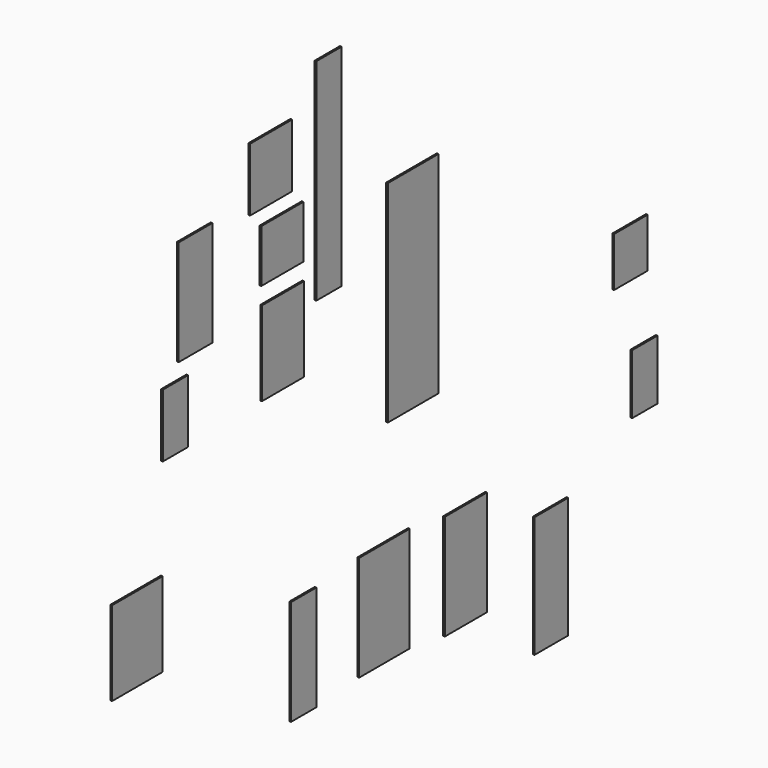
from build123d import *

# Parameters (mm, degrees)
F0_W      = 300
F0_H      = 2000
F1_DEPTH  = 16
F2_W      = 600
F2_H      = 2000
F3_DEPTH  = 16
F4_W      = 500
F4_H      = 800
F5_DEPTH  = 16
F6_W      = 500
F6_H      = 500
F7_DEPTH  = 16
F8_W      = 500
F8_H      = 600
F9_DEPTH  = 16
F10_W     = 300
F10_H     = 600
F11_DEPTH = 16
F12_W     = 400
F12_H     = 1000
F13_DEPTH = 16
F14_W     = 300
F14_H     = 1000
F15_DEPTH = 16
F16_W     = 500
F16_H     = 1000
F17_DEPTH = 16
F18_W     = 600
F18_H     = 1000
F19_DEPTH = 16
F20_W     = 600
F20_H     = 800
F21_DEPTH = 16
F22_W     = 400
F22_H     = 468
F23_DEPTH = 16
F24_W     = 300
F24_H     = 568
F25_DEPTH = 16
F26_W     = 400
F26_H     = 1150
F27_DEPTH = 16


with BuildPart() as f1:
    # F0 (on Right) → F1 (new body)
    with BuildSketch(Plane.YZ):
        with Locations((150, 1000)):
            Rectangle(F0_W, F0_H)
    extrude(amount=F1_DEPTH)


with BuildPart() as f3:
    # F2 (on Right) → F3 (new body)
    with BuildSketch(Plane.YZ):
        with Locations((1149.183393, -363.05549)):
            Rectangle(F2_W, F2_H)
    extrude(amount=F3_DEPTH)


with BuildPart() as f5:
    # F4 (on Right) → F5 (new body)
    with BuildSketch(Plane.YZ):
        with Locations((-394.620359, -177.552847)):
            Rectangle(F4_W, F4_H)
    extrude(amount=F5_DEPTH)


with BuildPart() as f7:
    # F6 (on Right) → F7 (new body)
    with BuildSketch(Plane.YZ):
        with Locations((-401.999153, 637.911748)):
            Rectangle(F6_W, F6_H)
    extrude(amount=F7_DEPTH)


with BuildPart() as f9:
    # F8 (on Right) → F9 (new body)
    with BuildSketch(Plane.YZ):
        with Locations((-535.392076, 1330.203979)):
            Rectangle(F8_W, F8_H)
    extrude(amount=F9_DEPTH)


with BuildPart() as f11:
    # F10 (on Right) → F11 (new body)
    with BuildSketch(Plane.YZ):
        with Locations((-1670.787215, -303.442387)):
            Rectangle(F10_W, F10_H)
    extrude(amount=F11_DEPTH)


with BuildPart() as f13:
    # F12 (on Right) → F13 (new body)
    with BuildSketch(Plane.YZ):
        with Locations((-1431.859701, 649.981737)):
            Rectangle(F12_W, F12_H)
    extrude(amount=F13_DEPTH)


with BuildPart() as f15:
    # F14 (on Right) → F15 (new body)
    with BuildSketch(Plane.YZ):
        with Locations((-150, -2896.117578)):
            Rectangle(F14_W, F14_H)
    extrude(amount=F15_DEPTH)


with BuildPart() as f17:
    # F16 (on Right) → F17 (new body)
    with BuildSketch(Plane.YZ):
        with Locations((1775.467287, -2924.923539)):
            Rectangle(F16_W, F16_H)
    extrude(amount=F17_DEPTH)


with BuildPart() as f19:
    # F18 (on Right) → F19 (new body)
    with BuildSketch(Plane.YZ):
        with Locations((808.389788, -2855.244279)):
            Rectangle(F18_W, F18_H)
    extrude(amount=F19_DEPTH)


with BuildPart() as f21:
    # F20 (on Right) → F21 (new body)
    with BuildSketch(Plane.YZ):
        with Locations((-2121.28849, -1959.848022)):
            Rectangle(F20_W, F20_H)
    extrude(amount=F21_DEPTH)


with BuildPart() as f23:
    # F22 (on Right) → F23 (new body)
    with BuildSketch(Plane.YZ):
        with Locations((3731.100465, -1112.803333)):
            Rectangle(F22_W, F22_H)
    extrude(amount=F23_DEPTH)


with BuildPart() as f25:
    # F24 (on Right) → F25 (new body)
    with BuildSketch(Plane.YZ):
        with Locations((3897.301314, -2220.33145)):
            Rectangle(F24_W, F24_H)
    extrude(amount=F25_DEPTH)


with BuildPart() as f27:
    # F26 (on Right) → F27 (new body)
    with BuildSketch(Plane.YZ):
        with Locations((2788.262796, -3435.644436)):
            Rectangle(F26_W, F26_H)
    extrude(amount=F27_DEPTH)


solid = Compound([f1.part, f3.part, f5.part, f7.part, f9.part, f11.part, f13.part, f15.part, f17.part, f19.part, f21.part, f23.part, f25.part, f27.part])
